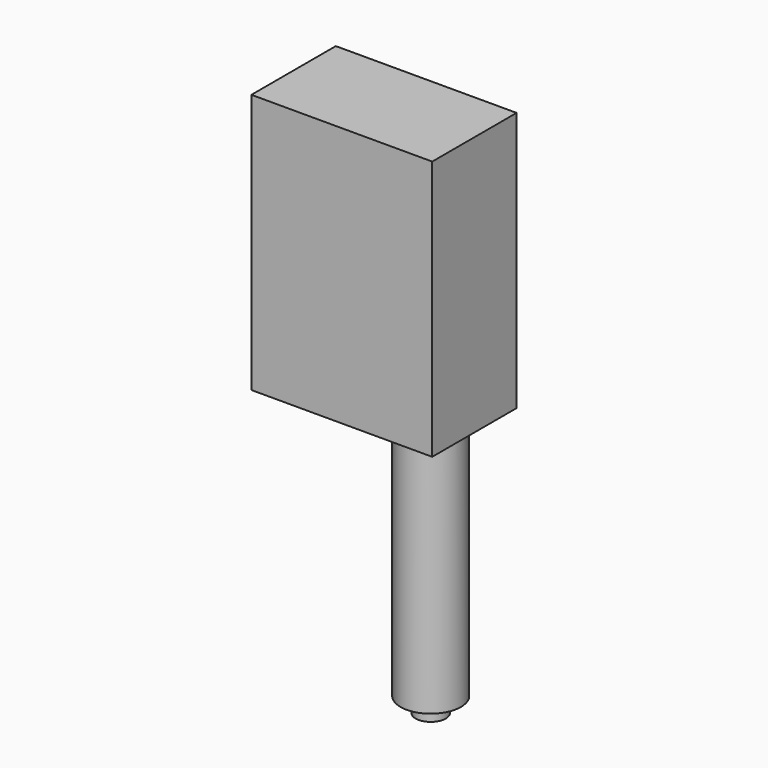
from build123d import *

# Parameters (mm, degrees)
SKETCH_W     = 240
SKETCH_H     = 345
PAD_DEPTH    = 140
SKETCH001_W  = 120
SKETCH001_H  = 180
PAD001_DEPTH = 43
SKETCH002_R  = 40
PAD002_DEPTH = 320
SKETCH003_R  = 20
PAD003_DEPTH = 20


with BuildPart() as pad:
    # Sketch → Pad (new body)
    with BuildSketch(Plane.XZ):
        with Locations((-20, -2.5)):
            Rectangle(SKETCH_W, SKETCH_H)
    extrude(amount=PAD_DEPTH)


with BuildPart() as pad001:
    # Pad001 base: copy of Pad
    add(pad.part)

    # Sketch001 → Pad001 (new body)
    with BuildSketch(Plane(origin=(0, 0, 0), x_dir=(1, 0, 0), z_dir=(0, 1, 0))):
        Rectangle(SKETCH001_W, SKETCH001_H)
    extrude(amount=PAD001_DEPTH)


with BuildPart() as pad003:
    # Pad002 base: copy of Pad
    add(pad.part)

    # Sketch002 → Pad002 (new body)
    with BuildSketch(Plane(origin=(0, 0, -175), x_dir=(1, 0, 0), z_dir=(0, 0, -1))):
        with Locations((50, 80)):
            Circle(SKETCH002_R)
    extrude(amount=PAD002_DEPTH)

    # Sketch003 → Pad003 (new body)
    with BuildSketch(Plane(origin=(0, 0, -495), x_dir=(1, 0, 0), z_dir=(0, 0, -1))):
        with Locations((50, 80)):
            Circle(SKETCH003_R)
    extrude(amount=PAD003_DEPTH)


solid = Compound([pad001.part, pad003.part])
